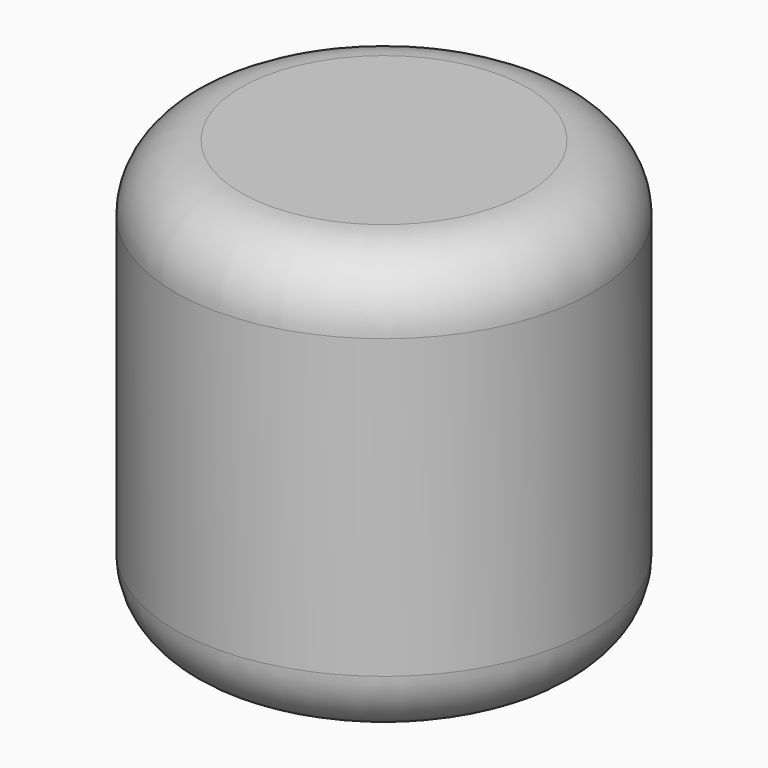
from build123d import *

# Parameters (mm, degrees)
F0_R     = 8.0375
F0_R_2   = 4.8625
F1_DEPTH = 6.35
F2_R     = 8.0375
F3_DEPTH = 10.16
F4_R     = 2.54
F5_R     = 4.4
F6_DEPTH = 6.35
F7_R     = 2.54


with BuildPart() as f1:
    # F0 (on Top) → F1 (new body)
    with BuildSketch(Plane.XY):
        Circle(F0_R)
        Circle(F0_R_2, mode=Mode.SUBTRACT)
    extrude(amount=F1_DEPTH)

    # F2 (on face) → F3 (join)
    with BuildSketch(Plane.XY.offset(6.35)):
        Circle(F2_R)
    extrude(amount=F3_DEPTH)

    # F4
    f4_edges = [f1.edges().sort_by_distance(p)[0] for p in [
        (-8.0375, 0, 0),
    ]]
    fillet(f4_edges, radius=F4_R)

    # F5 (on face) → F6 (cut)
    with BuildSketch(Plane(origin=(0, 0, 6.35), x_dir=(1, 0, 0), z_dir=(0, 0, -1))):
        Circle(F5_R)
    extrude(amount=-F6_DEPTH, mode=Mode.SUBTRACT)

    # F7
    f7_edges = [f1.edges().sort_by_distance(p)[0] for p in [
        (-8.0375, 0, 16.51),
    ]]
    fillet(f7_edges, radius=F7_R)


solid = f1.part
